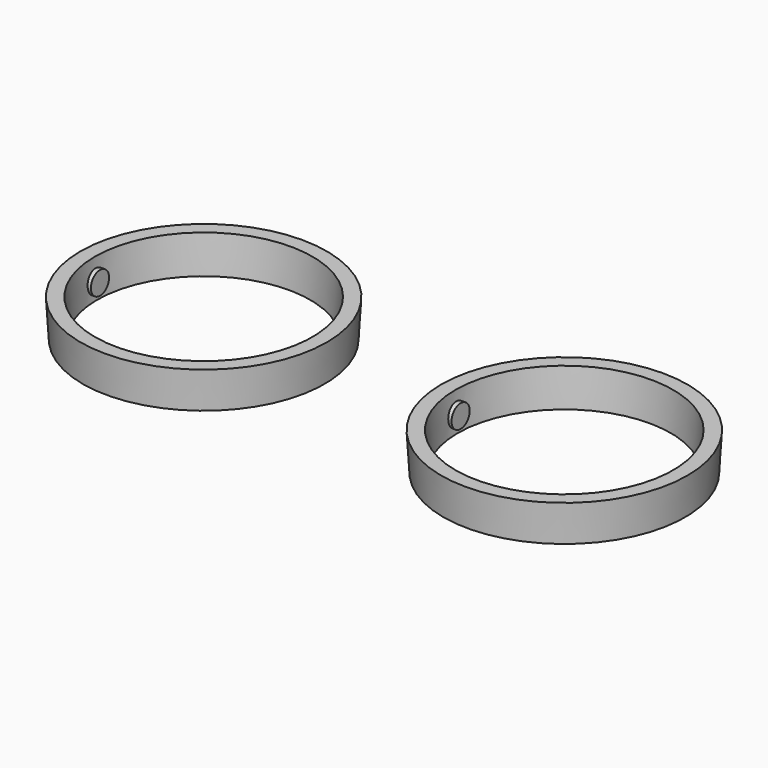
from build123d import *

# Parameters (mm, degrees)
F2_R     = 5.0165
F3_DEPTH = 49.4538
F4_DEPTH = 45.72


with BuildPart() as f1:
    # F0 (on Front) → F1 (revolve)
    with BuildSketch(Plane.XZ):
        Polygon((-53.351452, -16.48094), (-47.001452, -16.48094), (-47.9806, 0), (-54.3306, 0), align=None)
    revolve(axis=Axis((0, 0, -1.039299), (0, 0, 1)))

    # F2 (on Right) → F3 (join, symmetric)
    with BuildSketch(Plane.YZ):
        with Locations((0, -9.455404)):
            Circle(F2_R)
    extrude(amount=F3_DEPTH, both=True)

    # F2 (on Right) → F4 (cut, symmetric)
    with BuildSketch(Plane.YZ):
        with Locations((0, -9.455404)):
            Circle(F2_R)
    extrude(amount=F4_DEPTH, both=True, mode=Mode.SUBTRACT)


with BuildPart() as f5_1:
    # F5: copy of F1
    add(f1.part.moved(Location((159.004, 0, 0))))


solid = Compound([f1.part, f5_1.part])
